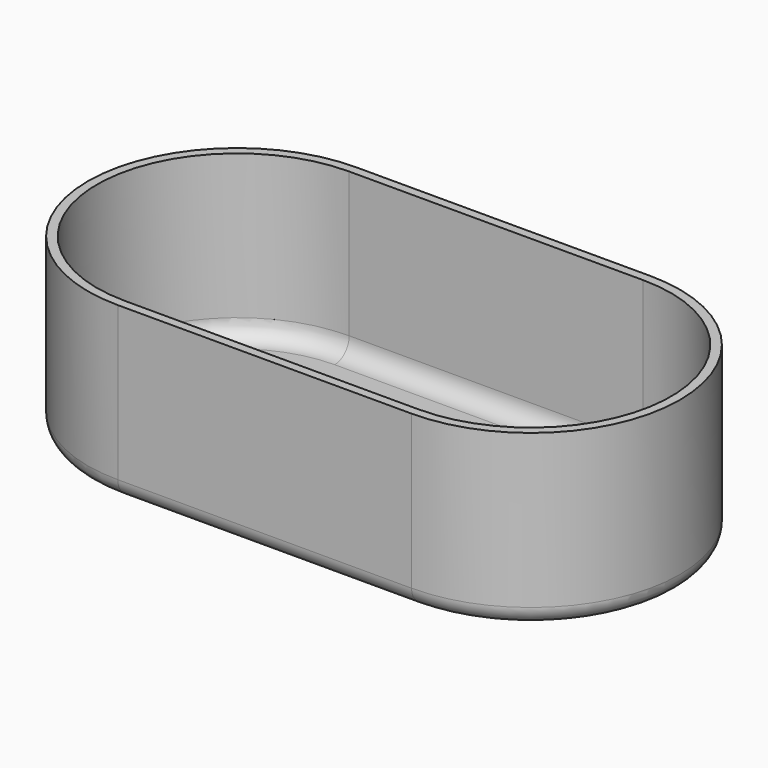
from build123d import *

# Parameters (mm, degrees)
PAD003_DEPTH   = 19
THICKNESS001_T = -1
FILLET004_R    = 2
FILLET005_R    = 2


with BuildPart() as part:
    # Sketch008 → Pad003 (new body)
    with BuildSketch(Plane.XY):
        with BuildLine():
            ThreePointArc((-83, 72.5), (-99.5, 56), (-83, 39.5))
            Line((-83, 39.5), (-50.5, 39.5))
            ThreePointArc((-50.5, 39.5), (-34, 56), (-50.5, 72.5))
            Line((-50.5, 72.5), (-83, 72.5))
        make_face()
    extrude(amount=PAD003_DEPTH)

    # Thickness001
    thickness001_openings = [part.faces().sort_by_distance(p)[0] for p in [
        (-66.75, 56, 19),
    ]]
    offset(amount=THICKNESS001_T, openings=thickness001_openings)

    # Fillet004
    fillet004_edges = [part.edges().sort_by_distance(p)[0] for p in [
        (-98.5, 56, 1),
        (-66.75, 40.5, 1),
        (-35, 56, 1),
        (-66.75, 71.5, 1),
    ]]
    fillet(fillet004_edges, radius=FILLET004_R)

    # Fillet005
    fillet005_edges = [part.edges().sort_by_distance(p)[0] for p in [
        (-99.5, 56, 0),
        (-66.75, 39.5, 0),
        (-34, 56, 0),
        (-66.75, 72.5, 0),
    ]]
    fillet(fillet005_edges, radius=FILLET005_R)


with BuildPart() as part_1:
    # Body003 placement: moved
    add(part.part.moved(Location((233, -61, 49))))


solid = part_1.part
